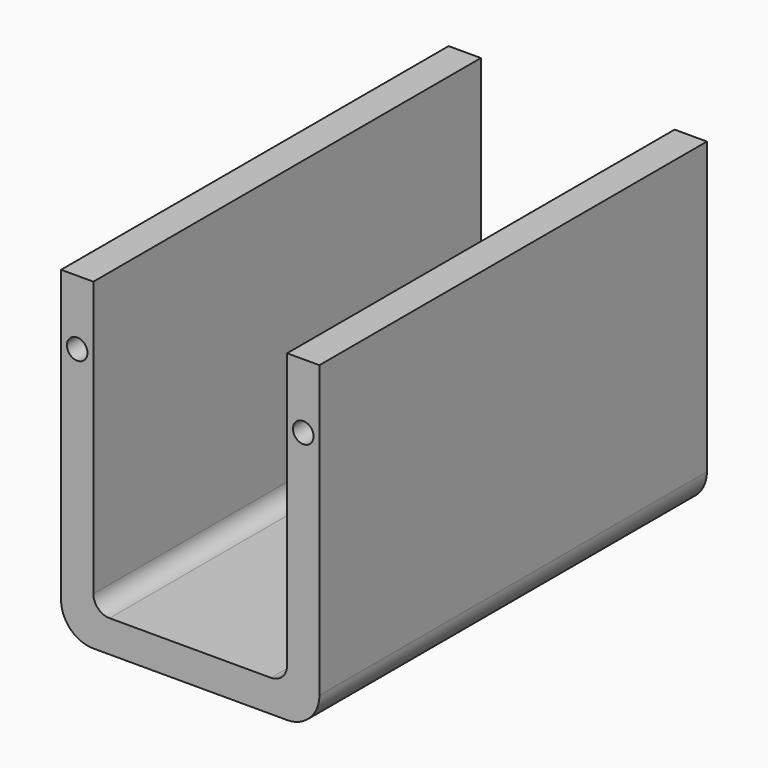
from build123d import *

# Parameters (mm, degrees)
F1_DEPTH = 95.25
F2_R     = 6.35
F3_R     = 3.175
F5_D     = 4.0386
F5_DEPTH = 15.08125
F5_TIP   = 1.213317848
F7_D     = 22.225


with BuildPart() as f1:
    # F0 (on Front) → F1 (new body)
    with BuildSketch(Plane.XZ):
        Polygon((0, 63.5), (0, 0), (50.8, 0), (50.8, 63.5), (44.45, 63.5), (44.45, 6.2857610174), (6.35, 6.2857610174), (6.35, 63.5), align=None)
    extrude(amount=F1_DEPTH)

    # F2
    f2_edges = [f1.edges().sort_by_distance(p)[0] for p in [
        (50.8, -47.625, 0),
        (0, -47.625, 0),
    ]]
    fillet(f2_edges, radius=F2_R)

    # F3
    f3_edges = [f1.edges().sort_by_distance(p)[0] for p in [
        (44.45, -47.625, 6.285761),
        (6.35, -47.625, 6.285761),
    ]]
    fillet(f3_edges, radius=F3_R)

    # F5
    with Locations(Plane.XZ.offset(95.25)):
        with Locations((3.175, 50.8), (47.625, 50.8)):
            Hole(F5_D / 2, depth=F5_DEPTH)
            with Locations((0, 0, -(F5_DEPTH + F5_TIP / 2))):  # 118° drill point
                Cone(0, F5_D / 2, F5_TIP, mode=Mode.SUBTRACT)

    # F7 (through all)
    with Locations(Plane.XY.offset(6.2857610174)):
        with Locations((25.4, -47.625)):
            Hole(F7_D / 2)


solid = f1.part
